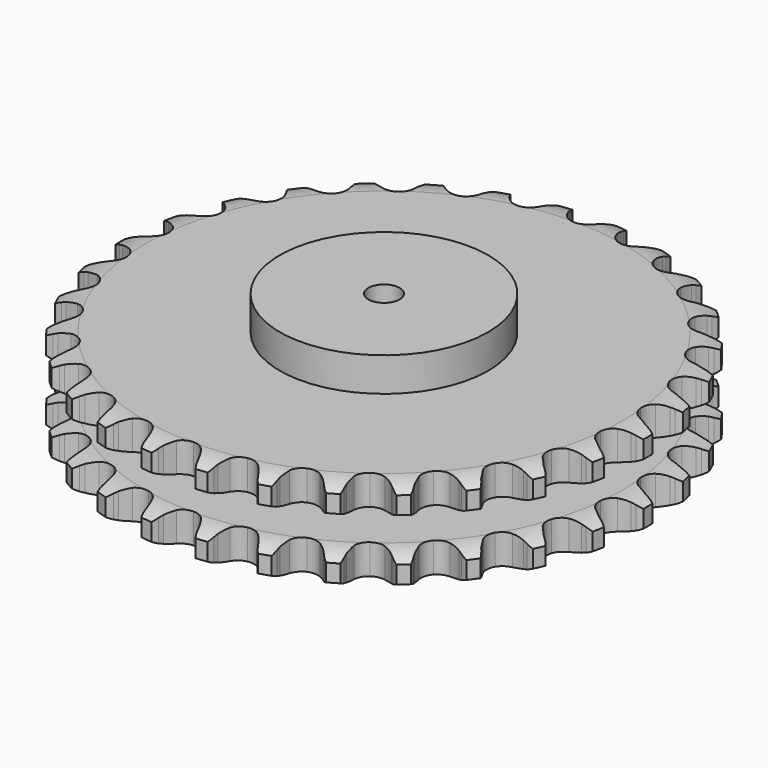
from build123d import *

# Parameters (mm, degrees)
PAD_DEPTH         = 87.4
SKETCH001_R       = 100
PAD001_DEPTH      = 120
SKETCH002_R       = 15
POCKET_DEPTH      = 0.001
POCKET_DEPTH_BACK = 120.001


with BuildPart() as part:
    # Sprocket → Pad (new body)
    with BuildSketch(Plane.XY):
        with BuildLine():
            ThreePointArc((-27.16145, 258.423936), (-21.900911, 253.499495), (-18.34811, 247.230444))
            Line((-18.34811, 247.230444), (-16.923743, 243.493875))
            ThreePointArc((-16.923743, 243.493875), (-14.668072, 238.634447), (-11.75282, 234.13963))
            ThreePointArc((-11.75282, 234.13963), (-6.566303, 229.826049), (0, 228.27989))
            ThreePointArc((0, 228.27989), (6.566303, 229.826049), (11.75282, 234.13963))
            ThreePointArc((11.75282, 234.13963), (14.668072, 238.634447), (16.923743, 243.493875))
            Line((16.923743, 243.493875), (18.34811, 247.230444))
            ThreePointArc((18.34811, 247.230444), (21.900911, 253.499495), (27.16145, 258.423936))
            ThreePointArc((27.16145, 258.423936), (31.283185, 252.513378), (33.45494, 245.642652))
            Line((33.45494, 245.642652), (34.071304, 241.691593))
            ThreePointArc((34.071304, 241.691593), (35.267352, 236.469376), (37.184374, 231.466666))
            ThreePointArc((37.184374, 231.466666), (41.360709, 226.169009), (47.462058, 223.291426))
            ThreePointArc((47.462058, 223.291426), (54.206336, 223.438587), (60.176359, 226.579568))
            Line((60.176359, 226.579568), (67.179142, 234.654305))
            ThreePointArc((67.179142, 234.654305), (68.220086, 236.362194), (69.349259, 238.013079))
            ThreePointArc((69.349259, 238.013079), (74.127832, 243.406467), (80.297265, 247.12957))
            ThreePointArc((80.297265, 247.12957), (83.100056, 240.491215), (83.795848, 233.319098))
            Line((83.795848, 233.319098), (83.577272, 229.32623))
            ThreePointArc((83.577272, 229.32623), (83.661423, 223.969458), (84.496432, 218.677498))
            ThreePointArc((84.496432, 218.677498), (87.480059, 212.627299), (92.849796, 208.544056))
            ThreePointArc((92.849796, 208.544056), (99.477292, 207.285787), (105.969902, 209.116893))
            Line((105.969902, 209.116893), (114.49849, 215.559217))
            ThreePointArc((114.49849, 215.559217), (115.871777, 217.01336), (117.319513, 218.3934))
            ThreePointArc((117.319513, 218.3934), (123.115011, 222.675409), (129.923704, 225.034456))
            ThreePointArc((129.923704, 225.034456), (131.285055, 217.958432), (130.474476, 210.798379))
            Line((130.474476, 210.798379), (129.430512, 206.938209))
            ThreePointArc((129.430512, 206.938209), (128.399089, 201.681), (128.11559, 196.331074))
            ThreePointArc((128.11559, 196.331074), (129.776112, 189.792755), (134.179553, 184.68231))
            ThreePointArc((134.179553, 184.68231), (140.400613, 182.073603), (147.132052, 182.514805))
            Line((147.132052, 182.514805), (156.813705, 187.043156))
            ThreePointArc((156.813705, 187.043156), (158.459316, 188.18), (160.162342, 189.228882))
            ThreePointArc((160.162342, 189.228882), (166.721474, 192.212367), (173.871853, 193.104256))
            ThreePointArc((173.871853, 193.104256), (173.732268, 185.899819), (171.450743, 179.06476))
            Line((171.450743, 179.06476), (169.627018, 175.505996))
            ThreePointArc((169.627018, 175.505996), (167.525099, 170.578115), (166.135483, 165.40404))
            ThreePointArc((166.135483, 165.40404), (166.400325, 158.663357), (169.645019, 152.749061))
            ThreePointArc((169.645019, 152.749061), (175.187753, 148.903929), (181.863826, 147.935945))
            Line((181.863826, 147.935945), (192.275408, 150.352412))
            ThreePointArc((192.275408, 150.352412), (194.121421, 151.122271), (196.005307, 151.794154))
            ThreePointArc((196.005307, 151.794154), (203.041407, 153.348722), (210.220968, 152.734474))
            ThreePointArc((210.220968, 152.734474), (208.586547, 145.716493), (204.93379, 139.505151))
            Line((204.93379, 139.505151), (202.410009, 136.403329))
            ThreePointArc((202.410009, 136.403329), (199.329457, 132.020147), (196.894457, 127.248055))
            ThreePointArc((196.894457, 127.248055), (195.752045, 120.599609), (197.696184, 114.139945))
            ThreePointArc((197.696184, 114.139945), (202.318348, 109.226439), (208.647277, 106.891574))
            Line((208.647277, 106.891574), (219.333753, 107.090546))
            ThreePointArc((219.333753, 107.090546), (221.299489, 107.459774), (223.2819, 107.725292))
            ThreePointArc((223.2819, 107.725292), (230.487458, 107.783002), (237.382418, 105.689462))
            ThreePointArc((237.382418, 105.689462), (234.324593, 99.164656), (229.460247, 93.848498))
            Line((229.460247, 93.848498), (226.346712, 91.339182))
            ThreePointArc((226.346712, 91.339182), (222.422163, 87.692266), (219.048199, 83.530721))
            ThreePointArc((219.048199, 83.530721), (216.548462, 77.26508), (217.107077, 70.542365))
            ThreePointArc((217.107077, 70.542365), (220.60666, 64.77523), (226.311842, 61.175529))
            Line((226.311842, 61.175529), (236.80616, 59.148309))
            ThreePointArc((236.80616, 59.148309), (238.805708, 59.100769), (240.800002, 58.948319))
            ThreePointArc((240.800002, 58.948319), (247.8601, 57.506648), (254.169118, 54.025314))
            ThreePointArc((254.169118, 54.025314), (249.821529, 48.278848), (243.95819, 44.090216))
            Line((243.95819, 44.090216), (240.390977, 42.283074))
            ThreePointArc((240.390977, 42.283074), (235.793952, 39.531811), (231.628484, 36.162692))
            ThreePointArc((231.628484, 36.162692), (227.880672, 30.553696), (227.029349, 23.861746))
            ThreePointArc((227.029349, 23.861746), (229.253403, 17.493032), (234.085492, 12.785819))
            Line((234.085492, 12.785819), (243.929003, 8.621007))
            ThreePointArc((243.929003, 8.621007), (245.874971, 8.158777), (247.793989, 7.595021))
            ThreePointArc((247.793989, 7.595021), (254.400066, 4.716977), (259.847407, 0))
            ThreePointArc((259.847407, 0), (254.400066, -4.716977), (247.793989, -7.595021))
            Line((247.793989, -7.595021), (243.929003, -8.621007))
            ThreePointArc((243.929003, -8.621007), (238.860414, -10.356373), (234.085492, -12.785819))
            ThreePointArc((234.085492, -12.785819), (229.253403, -17.493032), (227.029349, -23.861746))
            ThreePointArc((227.029349, -23.861746), (227.880672, -30.553696), (231.628484, -36.162692))
            Line((231.628484, -36.162692), (240.390977, -42.283074))
            ThreePointArc((240.390977, -42.283074), (242.198318, -43.139793), (243.95819, -44.090216))
            ThreePointArc((243.95819, -44.090216), (249.821529, -48.278848), (254.169118, -54.025314))
            ThreePointArc((254.169118, -54.025314), (247.8601, -57.506648), (240.800002, -58.948319))
            Line((240.800002, -58.948319), (236.80616, -59.148309))
            ThreePointArc((236.80616, -59.148309), (231.48753, -59.791934), (226.311842, -61.175529))
            ThreePointArc((226.311842, -61.175529), (220.60666, -64.77523), (217.107077, -70.542365))
            ThreePointArc((217.107077, -70.542365), (216.548462, -77.26508), (219.048199, -83.530721))
            Line((219.048199, -83.530721), (226.346712, -91.339182))
            ThreePointArc((226.346712, -91.339182), (227.936437, -92.552947), (229.460247, -93.848498))
            ThreePointArc((229.460247, -93.848498), (234.324593, -99.164656), (237.382418, -105.689462))
            ThreePointArc((237.382418, -105.689462), (230.487458, -107.783002), (223.2819, -107.725292))
            Line((223.2819, -107.725292), (219.333753, -107.090546))
            ThreePointArc((219.333753, -107.090546), (213.99753, -106.6143), (208.647277, -106.891574))
            ThreePointArc((208.647277, -106.891574), (202.318348, -109.226439), (197.696184, -114.139945))
            ThreePointArc((197.696184, -114.139945), (195.752045, -120.599609), (196.894457, -127.248055))
            Line((196.894457, -127.248055), (202.410009, -136.403329))
            ThreePointArc((202.410009, -136.403329), (203.712639, -137.921093), (204.93379, -139.505151))
            ThreePointArc((204.93379, -139.505151), (208.586547, -145.716493), (210.220968, -152.734474))
            ThreePointArc((210.220968, -152.734474), (203.041407, -153.348722), (196.005307, -151.794154))
            Line((196.005307, -151.794154), (192.275408, -150.352412))
            ThreePointArc((192.275408, -150.352412), (187.154811, -148.77711), (181.863826, -147.935945))
            ThreePointArc((181.863826, -147.935945), (175.187753, -148.903929), (169.645019, -152.749061))
            ThreePointArc((169.645019, -152.749061), (166.400325, -158.663357), (166.135483, -165.40404))
            Line((166.135483, -165.40404), (169.627018, -175.505996))
            ThreePointArc((169.627018, -175.505996), (170.585622, -177.261425), (171.450743, -179.06476))
            ThreePointArc((171.450743, -179.06476), (173.732268, -185.899819), (173.871853, -193.104256))
            ThreePointArc((173.871853, -193.104256), (166.721474, -192.212367), (160.162342, -189.228882))
            Line((160.162342, -189.228882), (156.813705, -187.043156))
            ThreePointArc((156.813705, -187.043156), (152.132529, -184.437647), (147.132052, -182.514805))
            ThreePointArc((147.132052, -182.514805), (140.400613, -182.073603), (134.179553, -184.68231))
            ThreePointArc((134.179553, -184.68231), (129.776112, -189.792755), (128.11559, -196.331074))
            Line((128.11559, -196.331074), (129.430512, -206.938209))
            ThreePointArc((129.430512, -206.938209), (130.003194, -208.854583), (130.474476, -210.798379))
            ThreePointArc((130.474476, -210.798379), (131.285055, -217.958432), (129.923704, -225.034456))
            ThreePointArc((129.923704, -225.034456), (123.115011, -222.675409), (117.319513, -218.3934))
            Line((117.319513, -218.3934), (114.49849, -215.559217))
            ThreePointArc((114.49849, -215.559217), (110.461325, -212.037373), (105.969902, -209.116893))
            ThreePointArc((105.969902, -209.116893), (99.477292, -207.285787), (92.849796, -208.544056))
            ThreePointArc((92.849796, -208.544056), (87.480059, -212.627299), (84.496432, -218.677498))
            Line((84.496432, -218.677498), (83.577272, -229.32623))
            ThreePointArc((83.577272, -229.32623), (83.739003, -231.319793), (83.795848, -233.319098))
            ThreePointArc((83.795848, -233.319098), (83.100056, -240.491215), (80.297265, -247.12957))
            ThreePointArc((80.297265, -247.12957), (74.127832, -243.406467), (69.349259, -238.013079))
            Line((69.349259, -238.013079), (67.179142, -234.654305))
            ThreePointArc((67.179142, -234.654305), (63.962431, -230.370048), (60.176359, -226.579568))
            ThreePointArc((60.176359, -226.579568), (54.206336, -223.438587), (47.462058, -223.291426))
            ThreePointArc((47.462058, -223.291426), (41.360709, -226.169009), (37.184374, -231.466666))
            Line((37.184374, -231.466666), (34.071304, -241.691593))
            ThreePointArc((34.071304, -241.691593), (33.815016, -243.675218), (33.45494, -245.642652))
            ThreePointArc((33.45494, -245.642652), (31.283185, -252.513378), (27.16145, -258.423936))
            ThreePointArc((27.16145, -258.423936), (21.900911, -253.499495), (18.34811, -247.230444))
            Line((18.34811, -247.230444), (16.923743, -243.493875))
            ThreePointArc((16.923743, -243.493875), (14.668072, -238.634447), (11.75282, -234.13963))
            ThreePointArc((11.75282, -234.13963), (6.566303, -229.826049), (0, -228.27989))
            ThreePointArc((0, -228.27989), (-6.566303, -229.826049), (-11.75282, -234.13963))
            Line((-11.75282, -234.13963), (-16.923743, -243.493875))
            ThreePointArc((-16.923743, -243.493875), (-17.58685, -245.380867), (-18.34811, -247.230444))
            ThreePointArc((-18.34811, -247.230444), (-21.900911, -253.499495), (-27.16145, -258.423936))
            ThreePointArc((-27.16145, -258.423936), (-31.283185, -252.513378), (-33.45494, -245.642652))
            Line((-33.45494, -245.642652), (-34.071304, -241.691593))
            ThreePointArc((-34.071304, -241.691593), (-35.267352, -236.469376), (-37.184374, -231.466666))
            ThreePointArc((-37.184374, -231.466666), (-41.360709, -226.169009), (-47.462058, -223.291426))
            ThreePointArc((-47.462058, -223.291426), (-54.206336, -223.438587), (-60.176359, -226.579568))
            Line((-60.176359, -226.579568), (-67.179142, -234.654305))
            ThreePointArc((-67.179142, -234.654305), (-68.220086, -236.362194), (-69.349259, -238.013079))
            ThreePointArc((-69.349259, -238.013079), (-74.127832, -243.406467), (-80.297265, -247.12957))
            ThreePointArc((-80.297265, -247.12957), (-83.100056, -240.491215), (-83.795848, -233.319098))
            Line((-83.795848, -233.319098), (-83.577272, -229.32623))
            ThreePointArc((-83.577272, -229.32623), (-83.661423, -223.969458), (-84.496432, -218.677498))
            ThreePointArc((-84.496432, -218.677498), (-87.480059, -212.627299), (-92.849796, -208.544056))
            ThreePointArc((-92.849796, -208.544056), (-99.477292, -207.285787), (-105.969902, -209.116893))
            Line((-105.969902, -209.116893), (-114.49849, -215.559217))
            ThreePointArc((-114.49849, -215.559217), (-115.871777, -217.01336), (-117.319513, -218.3934))
            ThreePointArc((-117.319513, -218.3934), (-123.115011, -222.675409), (-129.923704, -225.034456))
            ThreePointArc((-129.923704, -225.034456), (-131.285055, -217.958432), (-130.474476, -210.798379))
            Line((-130.474476, -210.798379), (-129.430512, -206.938209))
            ThreePointArc((-129.430512, -206.938209), (-128.399089, -201.681), (-128.11559, -196.331074))
            ThreePointArc((-128.11559, -196.331074), (-129.776112, -189.792755), (-134.179553, -184.68231))
            ThreePointArc((-134.179553, -184.68231), (-140.400613, -182.073603), (-147.132052, -182.514805))
            Line((-147.132052, -182.514805), (-156.813705, -187.043156))
            ThreePointArc((-156.813705, -187.043156), (-158.459316, -188.18), (-160.162342, -189.228882))
            ThreePointArc((-160.162342, -189.228882), (-166.721474, -192.212367), (-173.871853, -193.104256))
            ThreePointArc((-173.871853, -193.104256), (-173.732268, -185.899819), (-171.450743, -179.06476))
            Line((-171.450743, -179.06476), (-169.627018, -175.505996))
            ThreePointArc((-169.627018, -175.505996), (-167.525099, -170.578115), (-166.135483, -165.40404))
            ThreePointArc((-166.135483, -165.40404), (-166.400325, -158.663357), (-169.645019, -152.749061))
            ThreePointArc((-169.645019, -152.749061), (-175.187753, -148.903929), (-181.863826, -147.935945))
            Line((-181.863826, -147.935945), (-192.275408, -150.352412))
            ThreePointArc((-192.275408, -150.352412), (-194.121421, -151.122271), (-196.005307, -151.794154))
            ThreePointArc((-196.005307, -151.794154), (-203.041407, -153.348722), (-210.220968, -152.734474))
            ThreePointArc((-210.220968, -152.734474), (-208.586547, -145.716493), (-204.93379, -139.505151))
            Line((-204.93379, -139.505151), (-202.410009, -136.403329))
            ThreePointArc((-202.410009, -136.403329), (-199.329457, -132.020147), (-196.894457, -127.248055))
            ThreePointArc((-196.894457, -127.248055), (-195.752045, -120.599609), (-197.696184, -114.139945))
            ThreePointArc((-197.696184, -114.139945), (-202.318348, -109.226439), (-208.647277, -106.891574))
            Line((-208.647277, -106.891574), (-219.333753, -107.090546))
            ThreePointArc((-219.333753, -107.090546), (-221.299489, -107.459774), (-223.2819, -107.725292))
            ThreePointArc((-223.2819, -107.725292), (-230.487458, -107.783002), (-237.382418, -105.689462))
            ThreePointArc((-237.382418, -105.689462), (-234.324593, -99.164656), (-229.460247, -93.848498))
            Line((-229.460247, -93.848498), (-226.346712, -91.339182))
            ThreePointArc((-226.346712, -91.339182), (-222.422163, -87.692266), (-219.048199, -83.530721))
            ThreePointArc((-219.048199, -83.530721), (-216.548462, -77.26508), (-217.107077, -70.542365))
            ThreePointArc((-217.107077, -70.542365), (-220.60666, -64.77523), (-226.311842, -61.175529))
            Line((-226.311842, -61.175529), (-236.80616, -59.148309))
            ThreePointArc((-236.80616, -59.148309), (-238.805708, -59.100769), (-240.800002, -58.948319))
            ThreePointArc((-240.800002, -58.948319), (-247.8601, -57.506648), (-254.169118, -54.025314))
            ThreePointArc((-254.169118, -54.025314), (-249.821529, -48.278848), (-243.95819, -44.090216))
            Line((-243.95819, -44.090216), (-240.390977, -42.283074))
            ThreePointArc((-240.390977, -42.283074), (-235.793952, -39.531811), (-231.628484, -36.162692))
            ThreePointArc((-231.628484, -36.162692), (-227.880672, -30.553696), (-227.029349, -23.861746))
            ThreePointArc((-227.029349, -23.861746), (-229.253403, -17.493032), (-234.085492, -12.785819))
            Line((-234.085492, -12.785819), (-243.929003, -8.621007))
            ThreePointArc((-243.929003, -8.621007), (-245.874971, -8.158777), (-247.793989, -7.595021))
            ThreePointArc((-247.793989, -7.595021), (-254.400066, -4.716977), (-259.847407, 0))
            ThreePointArc((-259.847407, 0), (-254.400066, 4.716977), (-247.793989, 7.595021))
            Line((-247.793989, 7.595021), (-243.929003, 8.621007))
            ThreePointArc((-243.929003, 8.621007), (-238.860414, 10.356373), (-234.085492, 12.785819))
            ThreePointArc((-234.085492, 12.785819), (-229.253403, 17.493032), (-227.029349, 23.861746))
            ThreePointArc((-227.029349, 23.861746), (-227.880672, 30.553696), (-231.628484, 36.162692))
            Line((-231.628484, 36.162692), (-240.390977, 42.283074))
            ThreePointArc((-240.390977, 42.283074), (-242.198318, 43.139793), (-243.95819, 44.090216))
            ThreePointArc((-243.95819, 44.090216), (-249.821529, 48.278848), (-254.169118, 54.025314))
            ThreePointArc((-254.169118, 54.025314), (-247.8601, 57.506648), (-240.800002, 58.948319))
            Line((-240.800002, 58.948319), (-236.80616, 59.148309))
            ThreePointArc((-236.80616, 59.148309), (-231.48753, 59.791934), (-226.311842, 61.175529))
            ThreePointArc((-226.311842, 61.175529), (-220.60666, 64.77523), (-217.107077, 70.542365))
            ThreePointArc((-217.107077, 70.542365), (-216.548462, 77.26508), (-219.048199, 83.530721))
            Line((-219.048199, 83.530721), (-226.346712, 91.339182))
            ThreePointArc((-226.346712, 91.339182), (-227.936437, 92.552947), (-229.460247, 93.848498))
            ThreePointArc((-229.460247, 93.848498), (-234.324593, 99.164656), (-237.382418, 105.689462))
            ThreePointArc((-237.382418, 105.689462), (-230.487458, 107.783002), (-223.2819, 107.725292))
            Line((-223.2819, 107.725292), (-219.333753, 107.090546))
            ThreePointArc((-219.333753, 107.090546), (-213.99753, 106.6143), (-208.647277, 106.891574))
            ThreePointArc((-208.647277, 106.891574), (-202.318348, 109.226439), (-197.696184, 114.139945))
            ThreePointArc((-197.696184, 114.139945), (-195.752045, 120.599609), (-196.894457, 127.248055))
            Line((-196.894457, 127.248055), (-202.410009, 136.403329))
            ThreePointArc((-202.410009, 136.403329), (-203.712639, 137.921093), (-204.93379, 139.505151))
            ThreePointArc((-204.93379, 139.505151), (-208.586547, 145.716493), (-210.220968, 152.734474))
            ThreePointArc((-210.220968, 152.734474), (-203.041407, 153.348722), (-196.005307, 151.794154))
            Line((-196.005307, 151.794154), (-192.275408, 150.352412))
            ThreePointArc((-192.275408, 150.352412), (-187.154811, 148.77711), (-181.863826, 147.935945))
            ThreePointArc((-181.863826, 147.935945), (-175.187753, 148.903929), (-169.645019, 152.749061))
            ThreePointArc((-169.645019, 152.749061), (-166.400325, 158.663357), (-166.135483, 165.40404))
            Line((-166.135483, 165.40404), (-169.627018, 175.505996))
            ThreePointArc((-169.627018, 175.505996), (-170.585622, 177.261425), (-171.450743, 179.06476))
            ThreePointArc((-171.450743, 179.06476), (-173.732268, 185.899819), (-173.871853, 193.104256))
            ThreePointArc((-173.871853, 193.104256), (-166.721474, 192.212367), (-160.162342, 189.228882))
            Line((-160.162342, 189.228882), (-156.813705, 187.043156))
            ThreePointArc((-156.813705, 187.043156), (-152.132529, 184.437647), (-147.132052, 182.514805))
            ThreePointArc((-147.132052, 182.514805), (-140.400613, 182.073603), (-134.179553, 184.68231))
            ThreePointArc((-134.179553, 184.68231), (-129.776112, 189.792755), (-128.11559, 196.331074))
            Line((-128.11559, 196.331074), (-129.430512, 206.938209))
            ThreePointArc((-129.430512, 206.938209), (-130.003194, 208.854583), (-130.474476, 210.798379))
            ThreePointArc((-130.474476, 210.798379), (-131.285055, 217.958432), (-129.923704, 225.034456))
            ThreePointArc((-129.923704, 225.034456), (-123.115011, 222.675409), (-117.319513, 218.3934))
            Line((-117.319513, 218.3934), (-114.49849, 215.559217))
            ThreePointArc((-114.49849, 215.559217), (-110.461325, 212.037373), (-105.969902, 209.116893))
            ThreePointArc((-105.969902, 209.116893), (-99.477292, 207.285787), (-92.849796, 208.544056))
            ThreePointArc((-92.849796, 208.544056), (-87.480059, 212.627299), (-84.496432, 218.677498))
            Line((-84.496432, 218.677498), (-83.577272, 229.32623))
            ThreePointArc((-83.577272, 229.32623), (-83.739003, 231.319793), (-83.795848, 233.319098))
            ThreePointArc((-83.795848, 233.319098), (-83.100056, 240.491215), (-80.297265, 247.12957))
            ThreePointArc((-80.297265, 247.12957), (-74.127832, 243.406467), (-69.349259, 238.013079))
            Line((-69.349259, 238.013079), (-67.179142, 234.654305))
            ThreePointArc((-67.179142, 234.654305), (-63.962431, 230.370048), (-60.176359, 226.579568))
            ThreePointArc((-60.176359, 226.579568), (-54.206336, 223.438587), (-47.462058, 223.291426))
            ThreePointArc((-47.462058, 223.291426), (-41.360709, 226.169009), (-37.184374, 231.466666))
            Line((-37.184374, 231.466666), (-34.071304, 241.691593))
            ThreePointArc((-34.071304, 241.691593), (-33.815016, 243.675218), (-33.45494, 245.642652))
            ThreePointArc((-33.45494, 245.642652), (-31.283185, 252.513378), (-27.16145, 258.423936))
        make_face()
    extrude(amount=PAD_DEPTH)

    # Sketch → Groove (revolve, cut)
    with BuildSketch(Plane.XZ):
        with BuildLine():
            ThreePointArc((229.25, 0), (241.619317, 1.522732), (253.25, 6))
            Line((253.25, 6), (253.25, 22.8))
            ThreePointArc((253.25, 22.8), (241.619317, 27.277268), (229.25, 28.8))
            Line((100, 28.8), (229.25, 28.8))
            Line((100, 58.6), (100, 28.8))
            Line((229.25, 58.6), (100, 58.6))
            ThreePointArc((229.25, 58.6), (241.619317, 60.122732), (253.25, 64.6))
            Line((253.25, 64.6), (253.25, 81.4))
            ThreePointArc((253.25, 81.4), (241.619317, 85.877268), (229.25, 87.4))
            Line((229.25, 87.4), (263.25, 87.4))
            Line((263.25, 87.4), (263.25, 0))
            Line((229.25, 0), (263.25, 0))
        make_face()
    revolve(axis=Axis((0, 0, 0), (0, 0, 1)), mode=Mode.SUBTRACT)

    # Sketch001 → Pad001 (join)
    with BuildSketch(Plane.XY):
        Circle(SKETCH001_R)
    extrude(amount=PAD001_DEPTH)

    # Sketch002 → Pocket (cut, two sides)
    with BuildSketch(Plane.XY) as pocket_sk:
        Circle(SKETCH002_R)
    extrude(amount=-POCKET_DEPTH, mode=Mode.SUBTRACT)
    extrude(pocket_sk.sketch, amount=POCKET_DEPTH_BACK, mode=Mode.SUBTRACT)


solid = part.part
